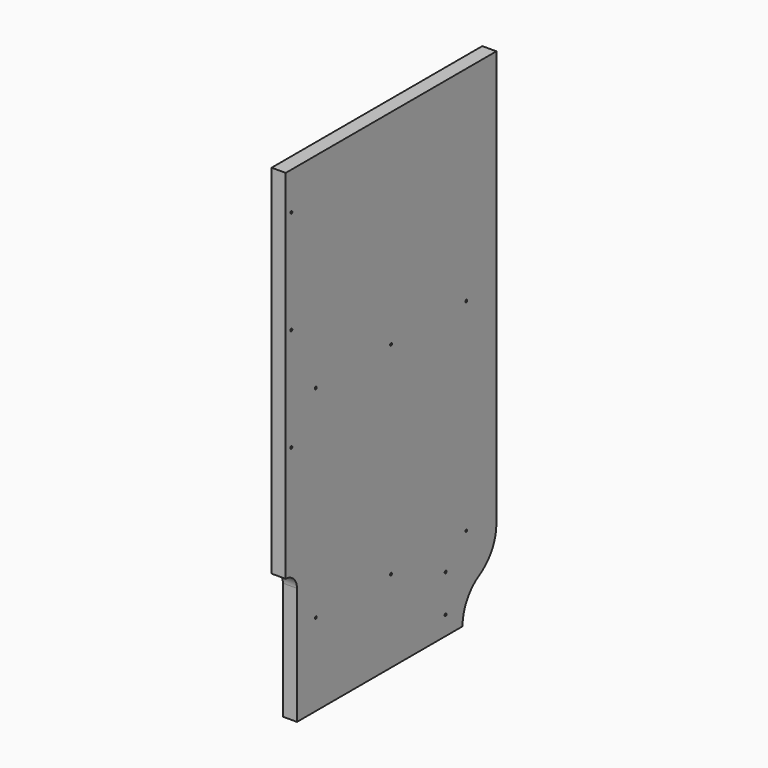
from build123d import *

# Parameters (mm, degrees)
F0_R     = 1.5875
F1_DEPTH = 19.05


with BuildPart() as f1:
    # F0 (on Right) → F1 (new body)
    with BuildSketch(Plane.YZ):
        with BuildLine():
            Line((200.365672, 482.6), (-155.234328, 482.6))
            Line((-155.234328, 482.6), (-155.234328, 0))
            ThreePointArc((-155.234328, 0), (-141.763944, -5.579616), (-136.184328, -19.05))
            Line((-136.184328, -19.05), (-136.184328, -177.8))
            Line((-136.184328, -177.8), (143.215672, -177.8))
            ThreePointArc((143.215672, -177.8), (150.87232, -149.225), (171.790672, -128.306648))
            ThreePointArc((171.790672, -128.306648), (192.709024, -107.388296), (200.365672, -78.813296))
            Line((200.365672, -78.813296), (200.365672, 482.6))
        make_face()
        with Locations((-104.434328, -66.675)):
            Circle(F0_R, mode=Mode.SUBTRACT)
        with Locations((22.565672, -66.675)):
            Circle(F0_R, mode=Mode.SUBTRACT)
        with Locations((114.640672, -152.4)):
            Circle(F0_R, mode=Mode.SUBTRACT)
        with Locations((114.640672, -101.6)):
            Circle(F0_R, mode=Mode.SUBTRACT)
        with Locations((149.565672, -66.675)):
            Circle(F0_R, mode=Mode.SUBTRACT)
        with Locations((-145.709328, 152.4)):
            Circle(F0_R, mode=Mode.SUBTRACT)
        with Locations((-104.434328, 206.375)):
            Circle(F0_R, mode=Mode.SUBTRACT)
        with Locations((-145.709328, 292.1)):
            Circle(F0_R, mode=Mode.SUBTRACT)
        with Locations((22.565672, 206.375)):
            Circle(F0_R, mode=Mode.SUBTRACT)
        with Locations((-145.709328, 431.8)):
            Circle(F0_R, mode=Mode.SUBTRACT)
        with Locations((149.565672, 206.375)):
            Circle(F0_R, mode=Mode.SUBTRACT)
    extrude(amount=-F1_DEPTH)


solid = f1.part
